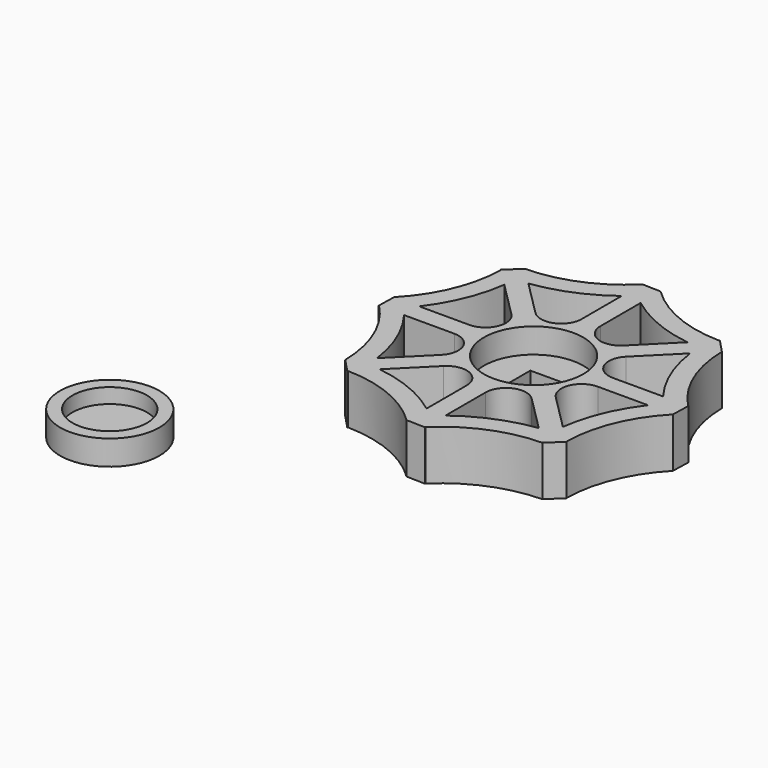
from build123d import *

# Parameters (mm, degrees)
F0_R     = 12.7
F0_W     = 8.255
F0_H     = 8.255
F1_DEPTH = 6.35
F2_DEPTH = 12.7
F3_R     = 12.7
F3_R_2   = 9.525
F4_DEPTH = 6.35
F5_DEPTH = 2.54


with BuildPart() as f1:
    # F0 (on Top) → F1 (new body)
    with BuildSketch(Plane.XY):
        Circle(F0_R)
        Rectangle(F0_W, F0_H, mode=Mode.SUBTRACT)
    extrude(amount=F1_DEPTH)

    # F0 (on Top) → F2 (join)
    with BuildSketch(Plane.XY):
        with BuildLine():
            ThreePointArc((-37.53473, -2.416579), (-30.748057, -12.736262), (-28.249842, -24.832283))
            Line((-28.249842, -24.832283), (-23.744405, -20.326846))
            ThreePointArc((-23.744405, -20.326846), (-26.2828, -10.886692), (-31.163081, -2.416579))
            Line((-31.163081, -2.416579), (-37.53473, -2.416579))
        make_face()
        with BuildLine():
            ThreePointArc((-24.832283, -28.249842), (-12.736262, -30.748057), (-2.416579, -37.53473))
            Line((-2.416579, -37.53473), (-2.416579, -31.163081))
            ThreePointArc((-2.416579, -31.163081), (-10.886692, -26.2828), (-20.326846, -23.744405))
            Line((-20.326846, -23.744405), (-24.832283, -28.249842))
        make_face()
        with BuildLine():
            ThreePointArc((2.416579, -37.53473), (12.736262, -30.748057), (24.832283, -28.249842))
            Line((24.832283, -28.249842), (20.326846, -23.744405))
            ThreePointArc((20.326846, -23.744405), (10.886692, -26.2828), (2.416579, -31.163081))
            Line((2.416579, -31.163081), (2.416579, -37.53473))
        make_face()
        with BuildLine():
            Line((37.53473, -2.416579), (31.163081, -2.416579))
            ThreePointArc((31.163081, -2.416579), (26.2828, -10.886692), (23.744405, -20.326846))
            Line((23.744405, -20.326846), (28.249842, -24.832283))
            ThreePointArc((28.249842, -24.832283), (30.748057, -12.736262), (37.53473, -2.416579))
        make_face()
        with BuildLine():
            Line((31.163081, 2.416579), (37.53473, 2.416579))
            ThreePointArc((37.53473, 2.416579), (30.748057, 12.736262), (28.249842, 24.832283))
            Line((28.249842, 24.832283), (23.744405, 20.326846))
            ThreePointArc((23.744405, 20.326846), (26.2828, 10.886692), (31.163081, 2.416579))
        make_face()
        with BuildLine():
            ThreePointArc((14.671217, -11.253658), (13.549063, -5.612205), (18.331655, -2.416579))
            Line((18.331655, -2.416579), (31.163081, -2.416579))
            Line((31.163081, -2.416579), (37.53473, -2.416579))
            Line((37.53473, -2.416579), (37.66429, 2.416579))
            Line((37.66429, 2.416579), (37.53473, 2.416579))
            Line((37.53473, 2.416579), (31.163081, 2.416579))
            Line((31.163081, 2.416579), (18.331655, 2.416579))
            ThreePointArc((18.331655, 2.416579), (13.549063, 5.612205), (14.671217, 11.253658))
            Line((14.671217, 11.253658), (23.744405, 20.326846))
            Line((23.744405, 20.326846), (28.249842, 24.832283))
            Line((28.249842, 24.832283), (24.923895, 28.341454))
            Line((24.923895, 28.341454), (24.832283, 28.249842))
            Line((24.832283, 28.249842), (20.326846, 23.744405))
            Line((20.326846, 23.744405), (11.253658, 14.671217))
            ThreePointArc((11.253658, 14.671217), (5.612205, 13.549063), (2.416579, 18.331655))
            Line((2.416579, 18.331655), (2.416579, 31.163081))
            Line((2.416579, 31.163081), (2.416579, 37.53473))
            Line((2.416579, 37.53473), (-2.416579, 37.66429))
            Line((-2.416579, 37.66429), (-2.416579, 37.53473))
            Line((-2.416579, 37.53473), (-2.416579, 31.163081))
            Line((-2.416579, 31.163081), (-2.416579, 18.331655))
            ThreePointArc((-2.416579, 18.331655), (-5.612205, 13.549063), (-11.253658, 14.671217))
            Line((-11.253658, 14.671217), (-20.326846, 23.744405))
            Line((-20.326846, 23.744405), (-24.832283, 28.249842))
            Line((-24.832283, 28.249842), (-28.341454, 24.923895))
            Line((-28.341454, 24.923895), (-28.249842, 24.832283))
            Line((-28.249842, 24.832283), (-23.744405, 20.326846))
            Line((-23.744405, 20.326846), (-14.671217, 11.253658))
            ThreePointArc((-14.671217, 11.253658), (-13.549063, 5.612205), (-18.331655, 2.416579))
            Line((-18.331655, 2.416579), (-31.163081, 2.416579))
            Line((-31.163081, 2.416579), (-37.53473, 2.416579))
            Line((-37.53473, 2.416579), (-37.66429, -2.416579))
            Line((-37.66429, -2.416579), (-37.53473, -2.416579))
            Line((-37.53473, -2.416579), (-31.163081, -2.416579))
            Line((-31.163081, -2.416579), (-18.331655, -2.416579))
            ThreePointArc((-18.331655, -2.416579), (-13.549063, -5.612205), (-14.671217, -11.253658))
            Line((-14.671217, -11.253658), (-23.744405, -20.326846))
            Line((-23.744405, -20.326846), (-28.249842, -24.832283))
            Line((-28.249842, -24.832283), (-24.923895, -28.341454))
            Line((-24.923895, -28.341454), (-24.832283, -28.249842))
            Line((-24.832283, -28.249842), (-20.326846, -23.744405))
            Line((-20.326846, -23.744405), (-11.253658, -14.671217))
            ThreePointArc((-11.253658, -14.671217), (-5.612205, -13.549063), (-2.416579, -18.331655))
            Line((-2.416579, -18.331655), (-2.416579, -31.163081))
            Line((-2.416579, -31.163081), (-2.416579, -37.53473))
            Line((-2.416579, -37.53473), (2.416579, -37.66429))
            Line((2.416579, -37.66429), (2.416579, -37.53473))
            Line((2.416579, -37.53473), (2.416579, -31.163081))
            Line((2.416579, -31.163081), (2.416579, -18.331655))
            ThreePointArc((2.416579, -18.331655), (5.612205, -13.549063), (11.253658, -14.671217))
            Line((11.253658, -14.671217), (20.326846, -23.744405))
            Line((20.326846, -23.744405), (24.832283, -28.249842))
            Line((24.832283, -28.249842), (28.341454, -24.923895))
            Line((28.341454, -24.923895), (28.249842, -24.832283))
            Line((28.249842, -24.832283), (23.744405, -20.326846))
            Line((23.744405, -20.326846), (14.671217, -11.253658))
        make_face()
        Circle(F0_R, mode=Mode.SUBTRACT)
        with BuildLine():
            Line((-23.744405, 20.326846), (-28.249842, 24.832283))
            ThreePointArc((-28.249842, 24.832283), (-30.748057, 12.736262), (-37.53473, 2.416579))
            Line((-37.53473, 2.416579), (-31.163081, 2.416579))
            ThreePointArc((-31.163081, 2.416579), (-26.2828, 10.886692), (-23.744405, 20.326846))
        make_face()
        with BuildLine():
            Line((-2.416579, 31.163081), (-2.416579, 37.53473))
            ThreePointArc((-2.416579, 37.53473), (-12.736262, 30.748057), (-24.832283, 28.249842))
            Line((-24.832283, 28.249842), (-20.326846, 23.744405))
            ThreePointArc((-20.326846, 23.744405), (-10.886692, 26.2828), (-2.416579, 31.163081))
        make_face()
        with BuildLine():
            Line((20.326846, 23.744405), (24.832283, 28.249842))
            ThreePointArc((24.832283, 28.249842), (12.736262, 30.748057), (2.416579, 37.53473))
            Line((2.416579, 37.53473), (2.416579, 31.163081))
            ThreePointArc((2.416579, 31.163081), (10.886692, 26.2828), (20.326846, 23.744405))
        make_face()
    extrude(amount=F2_DEPTH)


with BuildPart() as f4:
    # F3 (on Top) → F4 (new body)
    with BuildSketch(Plane.XY):
        with Locations((-59.2345, -61.300252)):
            Circle(F3_R)
        with Locations((-59.2345, -61.300252)):
            Circle(F3_R_2, mode=Mode.SUBTRACT)
    extrude(amount=F4_DEPTH)

    # F3 (on Top) → F5 (join)
    with BuildSketch(Plane.XY):
        with Locations((-59.2345, -61.300252)):
            Circle(F3_R_2)
    extrude(amount=F5_DEPTH)


solid = Compound([f1.part, f4.part])
